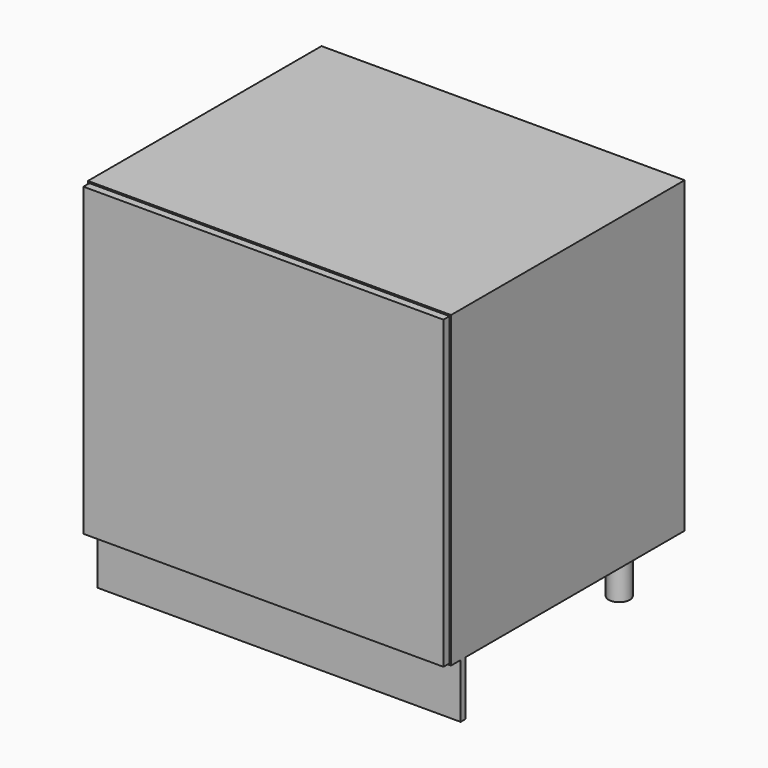
from build123d import *

# Parameters (mm, degrees)
F0_W     = 762
F0_H     = 647.7
F1_DEPTH = 314.325
F2_R     = 22.225
F3_DEPTH = 114.3
F4_W     = 762
F4_H     = 12.7
F5_DEPTH = 114.3
F6_W     = 762
F6_H     = 647.7
F6_W_2   = 755.65
F6_H_2   = 641.35
F7_DEPTH = 15.875


with BuildPart() as f1:
    # F0 (on Front) → F1 (new body, symmetric)
    with BuildSketch(Plane.XZ):
        with Locations((0, 438.15)):
            Rectangle(F0_W, F0_H)
    extrude(amount=F1_DEPTH, both=True)

    # F2 (on Top) → F3 (join)
    with BuildSketch(Plane.XY):
        with Locations((-304.8, -238.125)):
            Circle(F2_R)
        with Locations((304.8, -238.125)):
            Circle(F2_R)
        with Locations((304.8, 238.125)):
            Circle(F2_R)
        with Locations((-304.8, 238.125)):
            Circle(F2_R)
    extrude(amount=F3_DEPTH)

    # F4 (on Top) → F5 (join, through all)
    with BuildSketch(Plane.XY):
        with Locations((0, -266.954)):
            Rectangle(F4_W, F4_H)
    extrude(amount=F5_DEPTH)

    # F6 (on face) → F7 (cut)
    with BuildSketch(Plane.XZ.offset(314.325)):
        with Locations((0, 438.15)):
            Rectangle(F6_W, F6_H)
        with Locations((0, 438.15)):
            Rectangle(F6_W_2, F6_H_2, mode=Mode.SUBTRACT)
    extrude(amount=-F7_DEPTH, mode=Mode.SUBTRACT)


solid = f1.part
